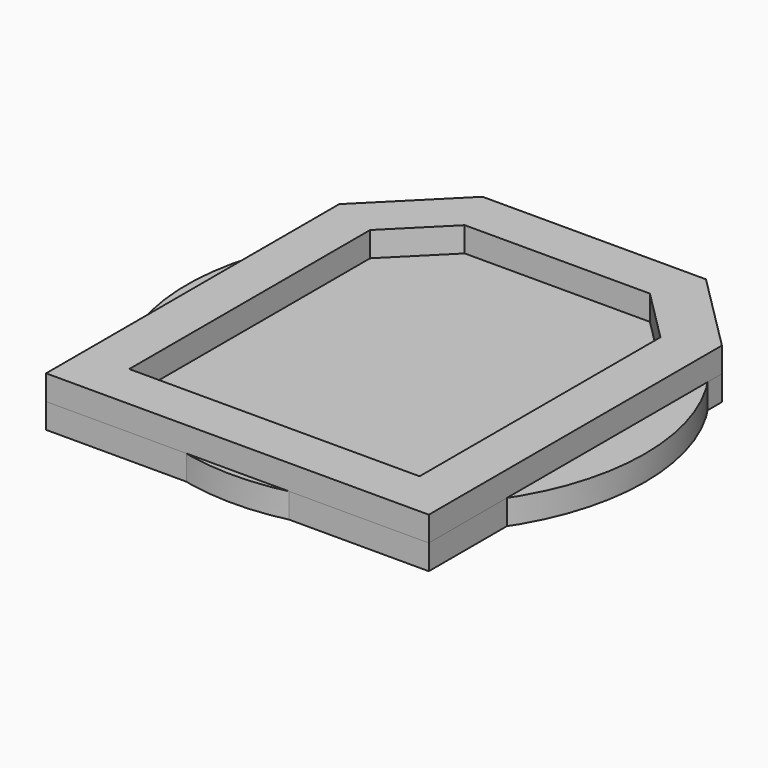
from build123d import *

# Parameters (mm, degrees)
F1_DEPTH = 1.5875
F2_R     = 14.605
F3_DEPTH = 1.5875
F4_DEPTH = 1.5875


with BuildPart() as f1:
    # F0 (on Top) → F1 (new body)
    with BuildSketch(Plane.XY):
        Polygon((-12.2047, -14.224), (12.2047, -14.224), (12.2047, 9.144), (7.1247, 14.224), (-7.1247, 14.224), (-12.2047, 9.144), align=None)
        Polygon((9.2583, -11.2776), (-9.2583, -11.2776), (-9.2583, 7.923561), (-5.904261, 11.2776), (5.904261, 11.2776), (9.2583, 7.923561), align=None, mode=Mode.SUBTRACT)
    extrude(amount=F1_DEPTH)


with BuildPart() as f3:
    # F2 (on Top) → F3 (new body)
    with BuildSketch(Plane.XY):
        Circle(F2_R)
    extrude(amount=-F3_DEPTH)


with BuildPart() as f4:
    # F1_face (on face) → F4 (new body, through all)
    with BuildSketch(Plane(origin=(0, -0.79742, 0), x_dir=(1, 0, 0), z_dir=(0, 0, -1))):
        Polygon((-12.2047, 13.42658), (-12.2047, -9.94142), (-7.1247, -15.02142), (7.1247, -15.02142), (12.2047, -9.94142), (12.2047, 13.42658), align=None)
        Polygon((-9.2583, 10.48018), (9.2583, 10.48018), (9.2583, -8.720981), (5.904261, -12.07502), (-5.904261, -12.07502), (-9.2583, -8.720981), align=None, mode=Mode.SUBTRACT)
    extrude(amount=F4_DEPTH)


solid = Compound([f1.part, f3.part, f4.part])
